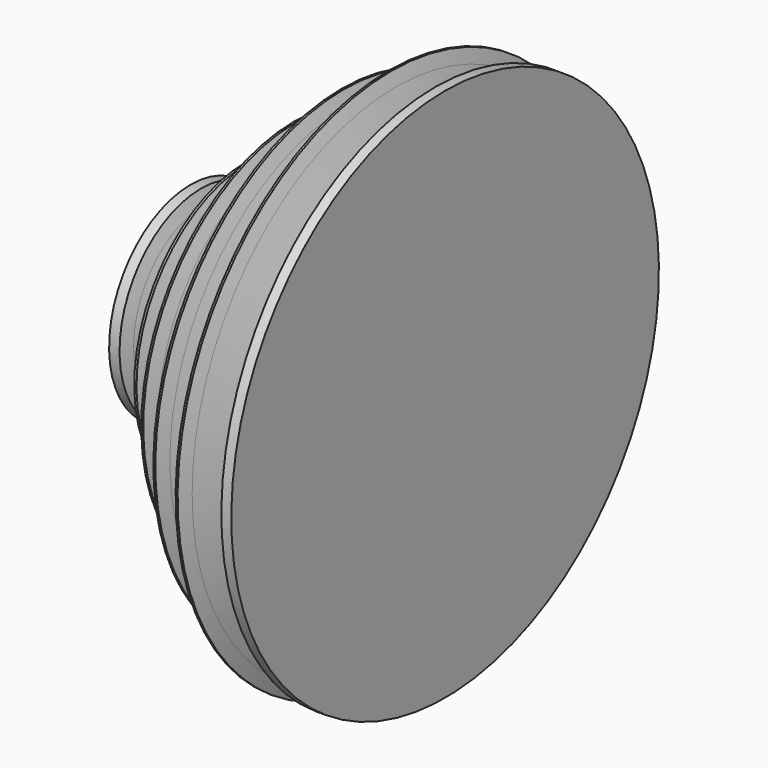
from build123d import *


with BuildPart() as f1:
    # F0 (on Front) → F1 (revolve)
    with BuildSketch(Plane.XZ):
        Polygon((0, 32), (0, 0), (80, 0), (80, 84), (76.87731, 84), (75.5, 80), (71.368069, 68), (68.631931, 68), (64.5, 80), (63.12269, 84), (62.5, 84), (62.5, 74), (61.87731, 74), (60.5, 70), (56.368069, 58), (53.631931, 58), (49.5, 70), (48.12269, 74), (47.5, 74), (47.5, 60), (46.87731, 60), (45.5, 56), (41.368069, 44), (38.631931, 44), (34.5, 56), (33.12269, 60), (32.5, 60), (32.5, 44), (31.799679, 44), (30.5, 40), (26.600964, 28), (23.399036, 28), (19.5, 40), (18.200321, 44), (17.5, 44), (17.5, 32), (16.722923, 32), (15.5, 28), (11.831232, 16), (8.168768, 16), (4.5, 28), (3.277077, 32), align=None)
    revolve(axis=Axis((40, 0, 0), (1, 0, 0)))


solid = f1.part
